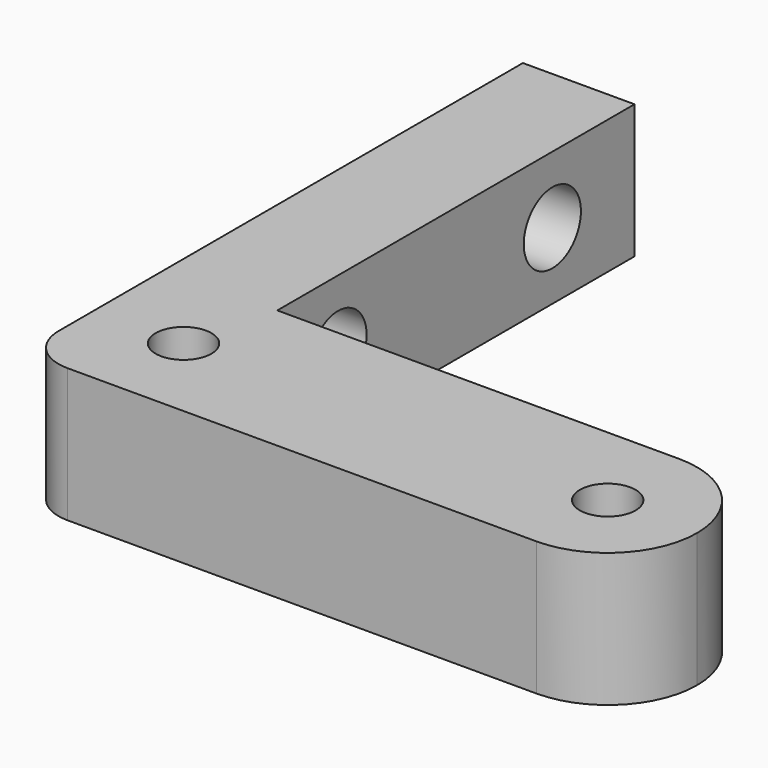
from build123d import *

# Parameters (mm, degrees)
F0_R     = 1.25
F1_DEPTH = 6
F2_R     = 1.6
F3_DEPTH = 5.001


with BuildPart() as f1:
    # F0 (on Top) → F1 (new body)
    with BuildSketch(Plane.XY):
        with BuildLine():
            Line((-2, -10), (-5, -10))
            Line((-5, -10), (-5, 10))
            Line((-5, 10), (-10, 10))
            Line((-10, 10), (-10, -10))
            Line((-10, -10), (-10, -16))
            ThreePointArc((-10, -16), (-9.414214, -17.414214), (-8, -18))
            Line((-8, -18), (2, -18))
            Line((2, -18), (13, -18))
            ThreePointArc((13, -18), (15.828427, -16.828427), (17, -14))
            ThreePointArc((17, -14), (15.828427, -11.171573), (13, -10))
            Line((13, -10), (2, -10))
            Line((2, -10), (-2, -10))
        make_face()
        with Locations((-6, -14)):
            Circle(F0_R, mode=Mode.SUBTRACT)
        with Locations((13, -14)):
            Circle(F0_R, mode=Mode.SUBTRACT)
    extrude(amount=F1_DEPTH)

    # F2 (on face) → F3 (cut, through all)
    with BuildSketch(Plane.YZ.offset(-5)):
        with Locations((5.4, 3)):
            Circle(F2_R)
        with Locations((-6.6, 3)):
            Circle(F2_R)
    extrude(amount=-F3_DEPTH, mode=Mode.SUBTRACT)


solid = f1.part
